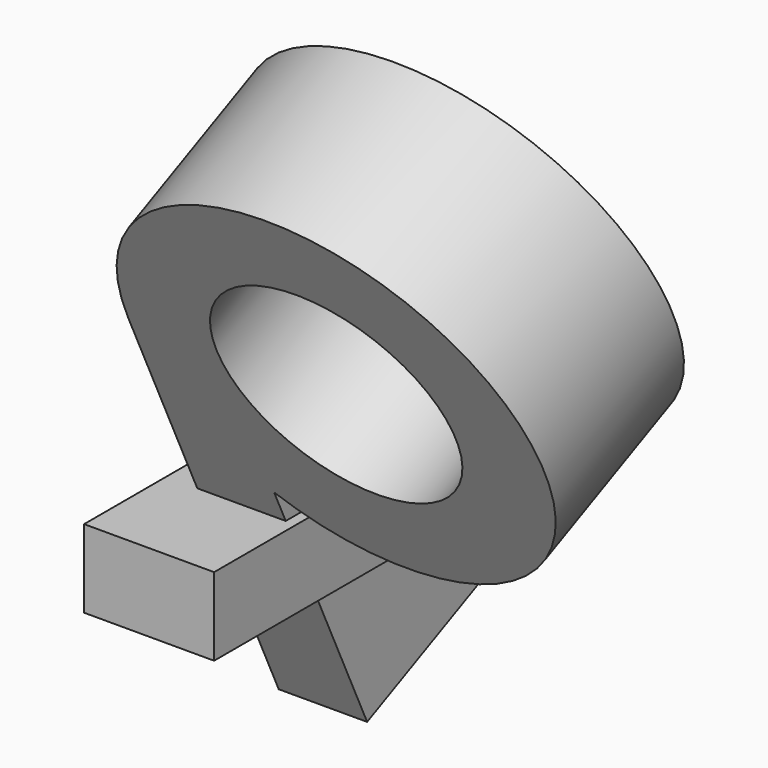
from build123d import *

# Parameters (mm, degrees)
F2_R      = 40
F2_R_2    = 23
F4_DEPTH  = 34
F8_DEPTH  = 25
F10_DEPTH = 34


with BuildPart() as f4:
    # F2 (on face) → F4 (new body)
    with BuildSketch(Plane(origin=(0, 0, 0), x_dir=(-1, 0, 0), z_dir=(0, 0.906308, 0.422618))):
        Circle(F2_R)
        Circle(F2_R_2, mode=Mode.SUBTRACT)
    extrude(amount=-F4_DEPTH)



with BuildPart() as f8:
    # F7 (on offset) → F8 (new body)
    with BuildSketch(Plane.YZ.offset(-46)):
        Polygon((-14.199466, -50), (-33.909734, -50), (-33.909734, -65), (-13.909734, -65), (-13.909734, -50.621332), align=None)
        Polygon((-13.909734, -50.621332), (-13.909734, -65), (-7.204851, -65), align=None)
        Polygon((23.315383, -50), (-14.199466, -50), (-13.909734, -50.621332), (-7.204851, -65), (30.309998, -65), align=None)
        Polygon((46.090266, -50), (23.315383, -50), (30.309998, -65), (46.090266, -65), align=None)
    extrude(amount=F8_DEPTH)


with BuildPart() as f4_1:
    add(f4.part)

    add(f8.part)  # F10 merges F8
    # F9 (on face) → F10 (join, through all)
    with BuildSketch(Plane(origin=(0, 0, 0), x_dir=(-1, 0, 0), z_dir=(0, 0.906308, 0.422618))):
        with BuildLine():
            Line((40, -85.627586), (40, 0))
            ThreePointArc((40, 0), (35.496479, -18.439089), (23, -32.726136))
            Line((23, -32.726136), (23, -85.627586))
            Line((23, -85.627586), (40, -85.627586))
        make_face()
    extrude(amount=-F10_DEPTH)


solid = f4_1.part
